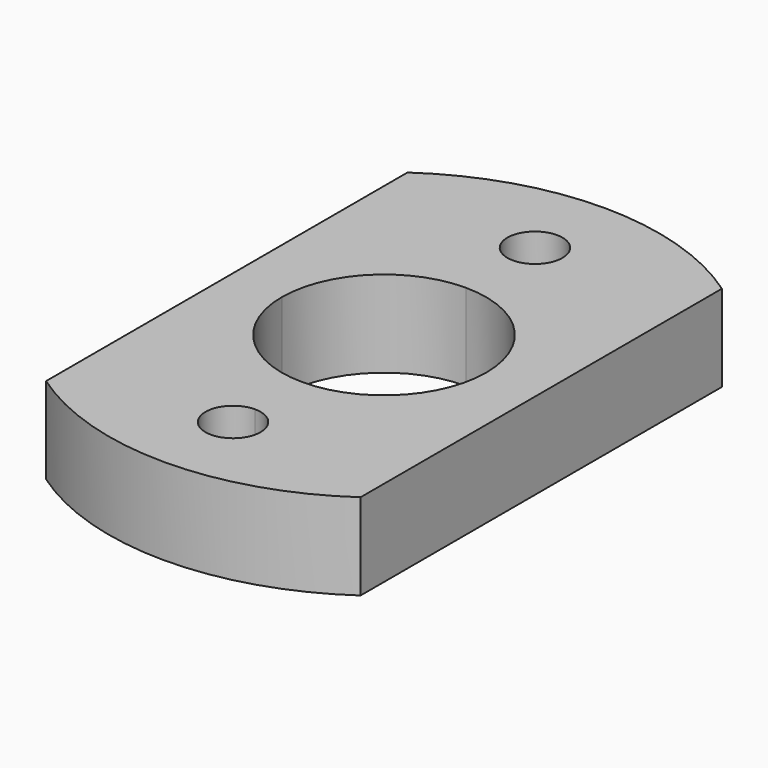
from build123d import *

# Parameters (mm, degrees)
F1_DEPTH = 5.5
F2_SIZE  = 1.5


with BuildPart() as f1:
    # F0 (on Top) → F1 (new body)
    with BuildSketch(Plane.XY):
        with BuildLine():
            Line((10, 0), (10, 14.361407))
            ThreePointArc((10, 14.361407), (0, 17.5), (-10, 14.361407))
            Line((-10, 14.361407), (-10, 0))
            Line((-10, 0), (-6.5, 0))
            ThreePointArc((-6.5, 0), (-4.596194, 4.596194), (0, 6.5))
            ThreePointArc((0, 6.5), (4.596194, 4.596194), (6.5, 0))
            Line((6.5, 0), (10, 0))
        make_face()
        with BuildLine():
            ThreePointArc((1.75, 12), (1.237437, 10.762563), (0, 10.25))
            ThreePointArc((0, 10.25), (-1.237437, 13.237437), (1.75, 12))
        make_face(mode=Mode.SUBTRACT)
        with BuildLine():
            ThreePointArc((-10, -14.361407), (0, -17.5), (10, -14.361407))
            Line((10, -14.361407), (10, 0))
            Line((10, 0), (6.5, 0))
            ThreePointArc((6.5, 0), (4.596194, -4.596194), (0, -6.5))
            ThreePointArc((0, -6.5), (-4.596194, -4.596194), (-6.5, 0))
            Line((-6.5, 0), (-10, 0))
            Line((-10, 0), (-10, -14.361407))
        make_face()
        with BuildLine():
            ThreePointArc((1.75, -12), (-1.237437, -13.237437), (0, -10.25))
            ThreePointArc((0, -10.25), (1.237437, -10.762563), (1.75, -12))
        make_face(mode=Mode.SUBTRACT)
    extrude(amount=F1_DEPTH)

    # F2
    f2_edges = [f1.edges().sort_by_distance(p)[0] for p in [
        (0, -13.75, 0),
        (-1.75, 12, 0),
    ]]
    chamfer(f2_edges, length=F2_SIZE)


solid = f1.part
